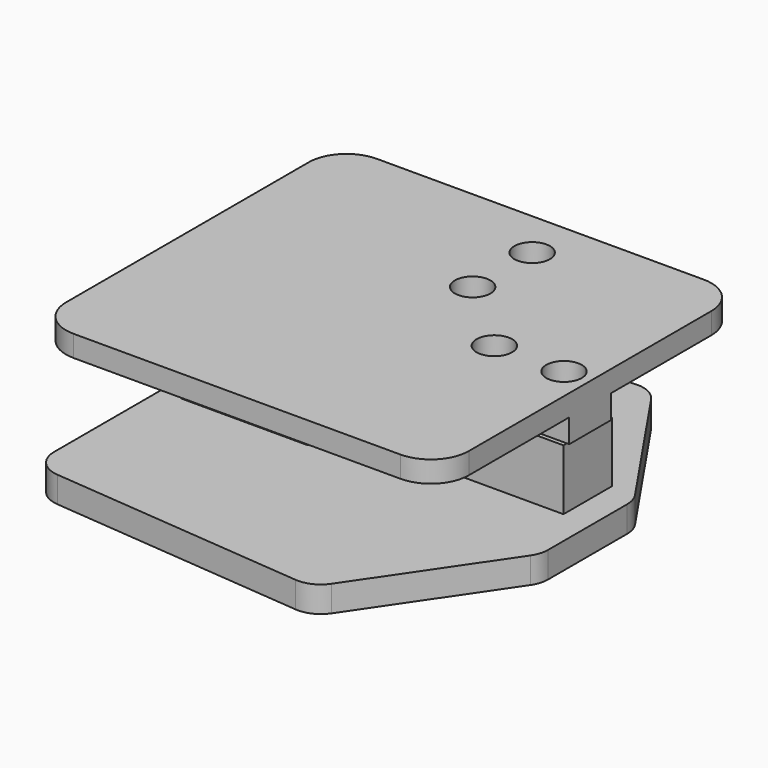
from build123d import *

# Parameters (mm, degrees)
SKETCH_W     = 80
SKETCH_H     = 12.8
SKETCH_R     = 3
SKETCH_R_2   = 2.5
PAD_DEPTH    = 12.8
SKETCH001_W  = 26.7
SKETCH001_H  = 12
SKETCH001_R  = 3
PAD001_DEPTH = 5
SKETCH002_R  = 4.25
PAD002_DEPTH = 5.5
SKETCH003_W  = 25.7
SKETCH003_H  = 11
SKETCH003_R  = 2.5
PAD003_DEPTH = 5
SKETCH004_R  = 3.75
PAD004_DEPTH = 4.5
SKETCH006_W  = 8.5
SKETCH006_H  = 24.2
SKETCH006_R  = 2.25
PAD006_DEPTH = 3
SKETCH005_R  = 2.25
PAD005_DEPTH = 8


with BuildPart() as load_cell:
    # Sketch → Pad (new body)
    with BuildSketch(Plane.XY):
        Rectangle(SKETCH_W, SKETCH_H)
        with Locations((-35, 0)):
            Circle(SKETCH_R, mode=Mode.SUBTRACT)
        with Locations((-20.3, 0)):
            Circle(SKETCH_R, mode=Mode.SUBTRACT)
        with Locations((20.3, 0)):
            Circle(SKETCH_R_2, mode=Mode.SUBTRACT)
        with Locations((35, 0)):
            Circle(SKETCH_R_2, mode=Mode.SUBTRACT)
    extrude(amount=PAD_DEPTH)


with BuildPart() as bottom:
    # Sketch001 → Pad001 (new body)
    with BuildSketch(Plane.XY):
        with Locations((-27.65, 0)):
            Rectangle(SKETCH001_W, SKETCH001_H)
        with Locations((-35, 0)):
            Circle(SKETCH001_R, mode=Mode.SUBTRACT)
        with Locations((-20.3, 0)):
            Circle(SKETCH001_R, mode=Mode.SUBTRACT)
    extrude(amount=-PAD001_DEPTH)

    # Sketch002 (on Face8 of Pad001) → Pad002 (join)
    with BuildSketch(Plane(origin=(0, 0, -5), x_dir=(1, 0, 0), z_dir=(0, 0, -1))):
        with BuildLine():
            Line((-39.974556, 39.977453), (14.170835, 44.761768))
            ThreePointArc((19.660164, 42.159409), (17.269194, 44.20666), (14.170835, 44.761768))
            Line((19.660164, 42.159409), (38.944614, 13.805993))
            ThreePointArc((39.98339, 10.431639), (39.717819, 12.196952), (38.944614, 13.805993))
            Line((39.98339, 10.431639), (39.98339, -10.431639))
            ThreePointArc((38.944614, -13.805993), (39.717819, -12.196952), (39.98339, -10.431639))
            Line((38.944614, -13.805993), (19.660164, -42.159409))
            ThreePointArc((14.170835, -44.761768), (17.269194, -44.20666), (19.660164, -42.159409))
            Line((14.170835, -44.761768), (-39.974556, -39.977453))
            ThreePointArc((-45.44645, -34.00074), (-43.871867, -38.052367), (-39.974556, -39.977453))
            Line((-45.44645, -34.00074), (-45.44645, 34.00074))
            ThreePointArc((-39.974556, 39.977453), (-43.871867, 38.052367), (-45.44645, 34.00074))
        make_face()
        with Locations((-35, 0)):
            Circle(SKETCH002_R, mode=Mode.SUBTRACT)
        with Locations((-20.3, 0)):
            Circle(SKETCH002_R, mode=Mode.SUBTRACT)
    extrude(amount=PAD002_DEPTH)


with BuildPart() as top:
    # Sketch003 (on Face10 of ShapeBinder001) → Pad003 (new body)
    with BuildSketch(Plane.XY.offset(12.8)):
        with Locations((27.65, 0)):
            Rectangle(SKETCH003_W, SKETCH003_H)
        with Locations((35, 0)):
            Circle(SKETCH003_R, mode=Mode.SUBTRACT)
        with Locations((20.3, 0)):
            Circle(SKETCH003_R, mode=Mode.SUBTRACT)
    extrude(amount=PAD003_DEPTH)

    # Sketch004 (on Face8 of Pad003) → Pad004 (join)
    with BuildSketch(Plane.XY.offset(17.8)):
        with BuildLine():
            Line((40.5, 5.5), (40.5, 32))
            ThreePointArc((40.5, 32), (38.156854, 37.656854), (32.5, 40))
            Line((32.5, 40), (-36.5, 40))
            ThreePointArc((-36.5, 40), (-42.156854, 37.656854), (-44.5, 32))
            Line((-44.5, 32), (-44.5, -32))
            ThreePointArc((-44.5, -32), (-42.156854, -37.656854), (-36.5, -40))
            Line((-36.5, -40), (32.5, -40))
            ThreePointArc((32.5, -40), (38.156854, -37.656854), (40.5, -32))
            Line((40.5, -32), (40.5, -5.5))
            Line((40.5, 5.5), (40.5, -5.5))
        make_face()
        with Locations((35, 0)):
            Circle(SKETCH004_R, mode=Mode.SUBTRACT)
        with Locations((20.3, 0)):
            Circle(SKETCH004_R, mode=Mode.SUBTRACT)
        with Locations((4.4, 29.85)):
            Circle(SKETCH004_R, mode=Mode.SUBTRACT)
        with Locations((4.4, 14.15)):
            Circle(SKETCH004_R, mode=Mode.SUBTRACT)
    extrude(amount=PAD004_DEPTH)

    # Sketch006 (on Face5 of Pad004) → Pad006 (join)
    with BuildSketch(Plane(origin=(0, 0, 17.8), x_dir=(1, 0, 0), z_dir=(0, 0, -1))):
        with Locations((4.4, -22)):
            Rectangle(SKETCH006_W, SKETCH006_H)
        with Locations((4.4, -14.15)):
            Circle(SKETCH006_R, mode=Mode.SUBTRACT)
        with Locations((4.4, -29.85)):
            Circle(SKETCH006_R, mode=Mode.SUBTRACT)
    extrude(amount=PAD006_DEPTH)


with BuildPart() as obj1:
    # Sketch005 → Pad005 (new body)
    with BuildSketch(Plane.XY):
        with BuildLine():
            Line((-13.05, -12.05), (13.05, -12.05))
            ThreePointArc((13.05, -12.05), (15.17132, -11.17132), (16.05, -9.05))
            Line((16.05, -9.05), (16.05, 9.05))
            ThreePointArc((16.05, 9.05), (15.17132, 11.17132), (13.05, 12.05))
            Line((13.05, 12.05), (-13.05, 12.05))
            ThreePointArc((-13.05, 12.05), (-15.17132, 11.17132), (-16.05, 9.05))
            Line((-16.05, 9.05), (-16.05, -9.05))
            ThreePointArc((-16.05, -9.05), (-15.17132, -11.17132), (-13.05, -12.05))
        make_face()
        with Locations((4.4, 7.85)):
            Circle(SKETCH005_R, mode=Mode.SUBTRACT)
        with Locations((4.4, -7.85)):
            Circle(SKETCH005_R, mode=Mode.SUBTRACT)
    extrude(amount=-PAD005_DEPTH)


with BuildPart() as obj1_1:
    # Body003 placement: moved
    add(obj1.part.moved(Location((0, 22, 14))))


solid = Compound([load_cell.part, bottom.part, top.part, obj1_1.part])
